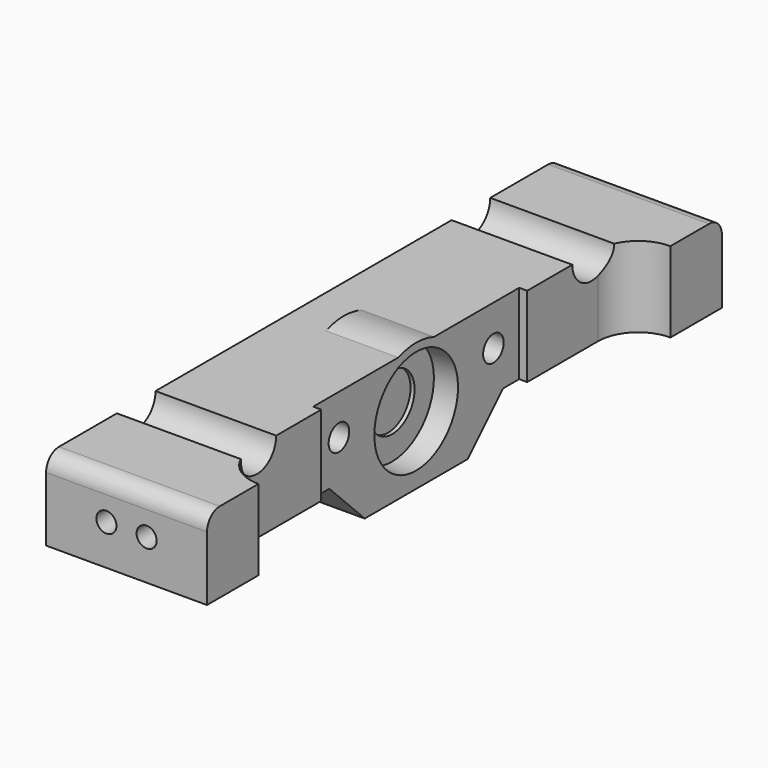
from build123d import *

# Parameters (mm, degrees)
CYLINDER357_R     = 3
CYLINDER357_DEPTH = 17
CYLINDER356_R     = 3
CYLINDER356_DEPTH = 17
BOX221_W          = 5
BOX221_H          = 8
BOX221_DEPTH      = 10
FILLET089_R       = 2
BOX222_W          = 5
BOX222_H          = 60
BOX222_DEPTH      = 10
BOX217_W          = 1
BOX217_H          = 32
BOX217_DEPTH      = 22
CYLINDER297_R     = 1.6
CYLINDER297_DEPTH = 16
CYLINDER296_R     = 1.6
CYLINDER296_DEPTH = 16
CYLINDER295_R     = 1.25
CYLINDER295_DEPTH = 10
CYLINDER293_R     = 1.25
CYLINDER293_DEPTH = 10
CYLINDER294_R     = 1.25
CYLINDER294_DEPTH = 10
CYLINDER292_R     = 1.25
CYLINDER292_DEPTH = 10
CYLINDER291_R     = 3.5
CYLINDER291_DEPTH = 4
CYLINDER289_R     = 6.5
CYLINDER289_DEPTH = 4
BOX218_W          = 15
BOX218_H          = 16
BOX218_DEPTH      = 5.5
CYLINDER290_R     = 8
CYLINDER290_DEPTH = 10
BOX216_W          = 10
BOX216_H          = 80
BOX216_DEPTH      = 10
BOX219_W          = 5
BOX219_H          = 80
BOX219_DEPTH      = 10
FILLET090_R       = 2
BOX220_W          = 5
BOX220_H          = 8
BOX220_DEPTH      = 10
FILLET088_R       = 2
CHAMFER031_SIZE   = 5.49
CHAMFER032_SIZE   = 3
FILLET110_R       = 4.99


with BuildPart() as cylinder357:
    # Cylinder357 → Cylinder357 (new body)
    with BuildSketch(Plane(origin=(129, 57, 19), x_dir=(0, 0, -1), z_dir=(1, 0, 0))):
        Circle(CYLINDER357_R)
    extrude(amount=CYLINDER357_DEPTH)


with BuildPart() as fusion302:
    # Cylinder356 → Cylinder356 (new body)
    with BuildSketch(Plane(origin=(129, 5, 19), x_dir=(0, 0, -1), z_dir=(1, 0, 0))):
        Circle(CYLINDER356_R)
    extrude(amount=CYLINDER356_DEPTH)

    # Fusion302: union Cylinder357
    add(cylinder357.part)


with BuildPart() as fillet089:
    # Box221 → Box221 (new body)
    with BuildSketch(Plane(origin=(90, 53, 9), x_dir=(1, 0, 0), z_dir=(0, 0, 1))):
        with Locations((2.5, 4)):
            Rectangle(BOX221_W, BOX221_H)
    extrude(amount=BOX221_DEPTH)

    # Fillet089
    fillet089_edges = [fillet089.edges().sort_by_distance(p)[0] for p in [
        (92.5, 61, 19),
    ]]
    fillet(fillet089_edges, radius=FILLET089_R)


with BuildPart() as fillet089_1:
    # Fillet089 placement: moved
    add(fillet089.part.moved(Location((0, 10, 0))))


with BuildPart() as cube302:
    # Box222 → Box222 (new body)
    with BuildSketch(Plane(origin=(75, 1, -1), x_dir=(1, 0, 0), z_dir=(0, 0, 1))):
        with Locations((2.5, 30)):
            Rectangle(BOX222_W, BOX222_H)
    extrude(amount=BOX222_DEPTH)


with BuildPart() as cube297:
    # Box217 → Box217 (new body)
    with BuildSketch(Plane(origin=(89, 15, 2), x_dir=(1, 0, 0), z_dir=(0, 0, 1))):
        with Locations((0.5, 16)):
            Rectangle(BOX217_W, BOX217_H)
    extrude(amount=BOX217_DEPTH)


with BuildPart() as cylinder297:
    # Cylinder297 → Cylinder297 (new body)
    with BuildSketch(Plane(origin=(80, 43, 14), x_dir=(0, 0, -1), z_dir=(1, 0, 0))):
        Circle(CYLINDER297_R)
    extrude(amount=CYLINDER297_DEPTH)


with BuildPart() as fusion262:
    # Cylinder296 → Cylinder296 (new body)
    with BuildSketch(Plane(origin=(80, 19, 14), x_dir=(0, 0, -1), z_dir=(1, 0, 0))):
        Circle(CYLINDER296_R)
    extrude(amount=CYLINDER296_DEPTH)

    # Fusion262: union Cylinder297
    add(cylinder297.part)


with BuildPart() as fusion262_1:
    # Fusion262 placement: moved
    add(fusion262.part.moved(Location((-6, 0, 0))))


with BuildPart() as cylinder295:
    # Cylinder295 → Cylinder295 (new body)
    with BuildSketch(Plane(origin=(87.5, 71, 14), x_dir=(1, 0, 0), z_dir=(0, -1, 0))):
        Circle(CYLINDER295_R)
    extrude(amount=CYLINDER295_DEPTH)


with BuildPart() as fusion260:
    # Cylinder293 → Cylinder293 (new body)
    with BuildSketch(Plane(origin=(87.5, 1, 14), x_dir=(1, 0, 0), z_dir=(0, -1, 0))):
        Circle(CYLINDER293_R)
    extrude(amount=CYLINDER293_DEPTH)

    # Fusion260: union Cylinder295
    add(cylinder295.part)


with BuildPart() as cylinder294:
    # Cylinder294 → Cylinder294 (new body)
    with BuildSketch(Plane(origin=(82.5, 71, 14), x_dir=(1, 0, 0), z_dir=(0, -1, 0))):
        Circle(CYLINDER294_R)
    extrude(amount=CYLINDER294_DEPTH)


with BuildPart() as fusion261:
    # Cylinder292 → Cylinder292 (new body)
    with BuildSketch(Plane(origin=(82.5, 1, 14), x_dir=(1, 0, 0), z_dir=(0, -1, 0))):
        Circle(CYLINDER292_R)
    extrude(amount=CYLINDER292_DEPTH)

    # Fusion259: union Cylinder294
    add(cylinder294.part)

    # Fusion261: union Fusion260
    add(fusion260.part)


with BuildPart() as cylinder291:
    # Cylinder291 → Cylinder291 (new body)
    with BuildSketch(Plane(origin=(89.5, 31, 10), x_dir=(0, 0, -1), z_dir=(1, 0, 0))):
        Circle(CYLINDER291_R)
    extrude(amount=CYLINDER291_DEPTH)


with BuildPart() as fusion257:
    # Cylinder289 → Cylinder289 (new body)
    with BuildSketch(Plane(origin=(90, 31, 10), x_dir=(0, 0, -1), z_dir=(1, 0, 0))):
        Circle(CYLINDER289_R)
    extrude(amount=CYLINDER289_DEPTH)

    # Fusion257: union Cylinder291
    add(cylinder291.part)


with BuildPart() as fusion257_1:
    # Fusion257 placement: moved
    add(fusion257.part.moved(Location((-4, 0, 2))))


with BuildPart() as cube298:
    # Box218 → Box218 (new body)
    with BuildSketch(Plane(origin=(75, 23, 3.5), x_dir=(1, 0, 0), z_dir=(0, 0, 1))):
        with Locations((7.5, 8)):
            Rectangle(BOX218_W, BOX218_H)
    extrude(amount=BOX218_DEPTH)


with BuildPart() as cylinder290:
    # Cylinder290 → Cylinder290 (new body)
    with BuildSketch(Plane(origin=(80, 31, 11.5), x_dir=(0, 0, -1), z_dir=(1, 0, 0))):
        Circle(CYLINDER290_R)
    extrude(amount=CYLINDER290_DEPTH)


with BuildPart() as fusion258:
    # Box216 → Box216 (new body)
    with BuildSketch(Plane(origin=(80, -9, 9), x_dir=(1, 0, 0), z_dir=(0, 0, 1))):
        with Locations((5, 40)):
            Rectangle(BOX216_W, BOX216_H)
    extrude(amount=BOX216_DEPTH)

    # Fusion258: union Cylinder290
    add(cylinder290.part)


with BuildPart() as fillet090:
    # Box219 → Box219 (new body)
    with BuildSketch(Plane(origin=(75, -9, 9), x_dir=(1, 0, 0), z_dir=(0, 0, 1))):
        with Locations((2.5, 40)):
            Rectangle(BOX219_W, BOX219_H)
    extrude(amount=BOX219_DEPTH)

    # Fusion263: union Cube298, Fusion258
    add(cube298.part)
    add(fusion258.part)

    # Cut226: cut Fusion257
    add(fusion257_1.part, mode=Mode.SUBTRACT)

    # Cut227: cut Fusion261
    add(fusion261.part, mode=Mode.SUBTRACT)

    # Cut228: cut Fusion262
    add(fusion262_1.part, mode=Mode.SUBTRACT)

    # Cut229: cut Cube297
    add(cube297.part, mode=Mode.SUBTRACT)

    # Cut230: cut Cube302
    add(cube302.part, mode=Mode.SUBTRACT)

    # Fillet090
    fillet090_edges = [fillet090.edges().sort_by_distance(p)[0] for p in [
        (82.5, -9, 19),
        (82.5, 71, 19),
    ]]
    fillet(fillet090_edges, radius=FILLET090_R)


with BuildPart() as front_threaded_bar_support_wide:
    # Box220 → Box220 (new body)
    with BuildSketch(Plane(origin=(90, 1, 9), x_dir=(1, 0, 0), z_dir=(0, 0, 1))):
        with Locations((2.5, 4)):
            Rectangle(BOX220_W, BOX220_H)
    extrude(amount=BOX220_DEPTH)

    # Fillet088
    fillet088_edges = [front_threaded_bar_support_wide.edges().sort_by_distance(p)[0] for p in [
        (92.5, 1, 19),
    ]]
    fillet(fillet088_edges, radius=FILLET088_R)


with BuildPart() as front_threaded_bar_support_wide_1:
    # Fillet088 placement: moved
    add(front_threaded_bar_support_wide.part.moved(Location((0, -10, 0))))

    # Fusion264: union Fillet089, Fillet090
    add(fillet089_1.part)
    add(fillet090.part)


with BuildPart() as front_threaded_bar_support_wide_2:
    # Fusion264 placement: moved
    add(front_threaded_bar_support_wide_1.part.moved(Location((54, 0, 0))))

    # Cut305: cut Fusion302
    add(fusion302.part, mode=Mode.SUBTRACT)

    # Chamfer031
    chamfer031_edges = [front_threaded_bar_support_wide_2.edges().sort_by_distance(p)[0] for p in [
        (138.5, 39, 9),
        (138.5, 23, 9),
    ]]
    chamfer(chamfer031_edges, length=CHAMFER031_SIZE)

    # Chamfer032
    chamfer032_edges = [front_threaded_bar_support_wide_2.edges().sort_by_distance(p)[0] for p in [
        (134, 31, 3.5),
    ]]
    chamfer(chamfer032_edges, length=CHAMFER032_SIZE)

    # Fillet110
    fillet110_edges = [front_threaded_bar_support_wide_2.edges().sort_by_distance(p)[0] for p in [
        (144, 63, 14),
        (144, -1, 14),
    ]]
    fillet(fillet110_edges, radius=FILLET110_R)


solid = front_threaded_bar_support_wide_2.part
